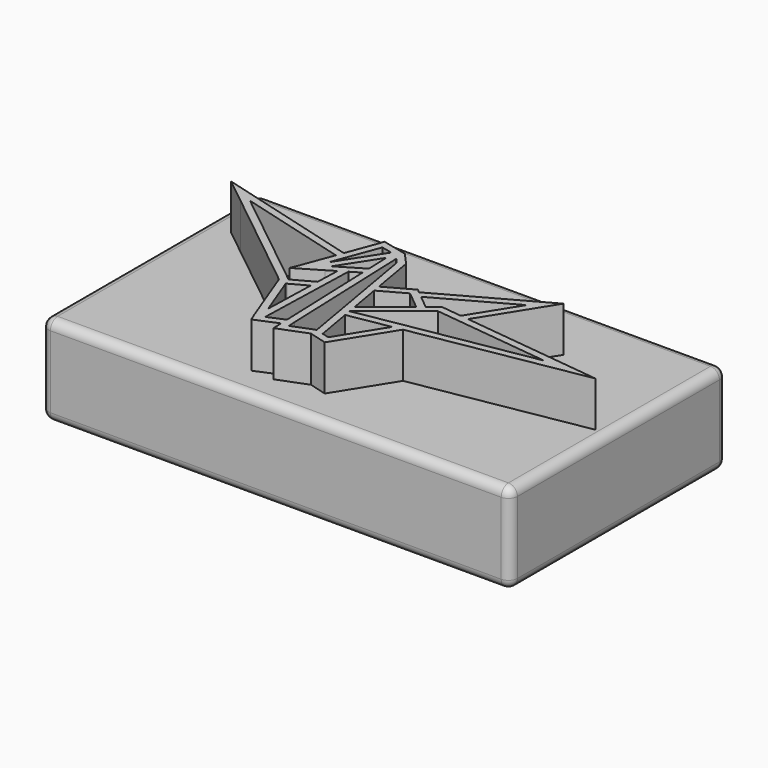
from build123d import *

# Parameters (mm, degrees)
F0_W     = 66.04
F0_H     = 38.1
F1_DEPTH = 12.7
F3_DEPTH = 6.35
F4_R     = 1.27


with BuildPart() as f1:
    # F0 (on Top) → F1 (new body)
    with BuildSketch(Plane.XY):
        with Locations((1.27, 0)):
            Rectangle(F0_W, F0_H)
    extrude(amount=F1_DEPTH)

    # F4
    f4_edges = [f1.edges().sort_by_distance(p)[0] for p in [
        (-31.75, 0, 12.7),
        (1.27, -19.05, 12.7),
        (34.29, 0, 12.7),
        (1.27, 19.05, 12.7),
        (1.27, -19.05, 0),
        (-31.75, 0, 0),
        (1.27, 19.05, 0),
        (34.29, 0, 0),
        (34.29, -19.05, 6.35),
        (34.29, 19.05, 6.35),
        (-31.75, 19.05, 6.35),
        (-31.75, -19.05, 6.35),
    ]]
    fillet(f4_edges, radius=F4_R)


with BuildPart() as f3:
    # F2 (on face) → F3 (new body)
    with BuildSketch(Plane.XY.offset(12.7)):
        Polygon((-2.621135, -13.258752), (-2.569075, -14.664381), (1.456128, -13.093448), (3.948794, -13.784011), (8.781074, -6.048075), (32.574495, -1.918397), (26.51218, -1.213466), (12.79722, 0.381322), (18.680594, 9.79994), (18.52357, 9.712952), (4.599564, 1.99936), (4.103659, 2.407098), (0.306057, 0.300503), (-0.75713, 6.426131), (-2.352491, 8.193586), (-4.986979, 8.831683), (-5.901284, 9.053136), (-6.172726, 8.198022), (-7.695141, 4.116631), (-7.779743, 4.148188), (-23.470959, 8.457717), (-28.035756, 9.71142), (-24.319806, 6.744927), (-9.927431, -4.744703), (-9.359661, -5.208162), (-6.170621, -13.606421), (-5.763227, -14.577265), align=None)
        Polygon((-5.914504, -11.418882), (-8.151995, -5.526504), (-8.041725, -5.472655), (-5.70304, -4.191147), align=None, mode=Mode.SUBTRACT)
        Polygon((-3.014268, -12.321894), (-4.948232, -13.133442), (-4.535234, 0.982669), (-3.178753, 1.796938), (-2.661591, -12.166448), align=None, mode=Mode.SUBTRACT)
        Polygon((-1.707976, 5.963227), (1.413187, -12.019572), (-1.586652, -13.190332), (-1.645853, -12.14056), (-2.342395, 6.666081), align=None, mode=Mode.SUBTRACT)
        Polygon((7.437476, -6.281275), (3.488988, -12.602359), (2.497871, -12.327782), (1.623557, -7.290361), align=None, mode=Mode.SUBTRACT)
        Polygon((0.490002, -0.759308), (3.992193, 1.183417), (6.531743, -0.904631), (1.25131, -5.145636), align=None, mode=Mode.SUBTRACT)
        Polygon((25.487821, -2.117198), (1.449814, -6.289327), (9.027602, -0.203189), align=None, mode=Mode.SUBTRACT)
        Polygon((-8.514082, -4.572954), (-23.541175, 7.42338), (-8.048819, 3.168467), (-9.691342, -1.234917), (-10.148071, -2.369864), (-6.758529, -0.351933), (-5.569839, 0.361615), (-5.668592, -3.013736), align=None, mode=Mode.SUBTRACT)
        Polygon((-3.221687, 2.956162), (-6.786621, 0.8162), (-3.340745, 6.170736), align=None, mode=Mode.SUBTRACT)
        Polygon((-5.220795, 7.842938), (-3.708536, 7.476656), (-7.630956, 1.381619), align=None, mode=Mode.SUBTRACT)
        Polygon((5.44355, 1.305425), (15.739332, 7.009061), (11.680411, 0.511186), (9.144953, 0.806012), (8.72277, 0.855103), (7.340995, -0.254676), align=None, mode=Mode.SUBTRACT)
    extrude(amount=F3_DEPTH)


solid = Compound([f1.part, f3.part])
